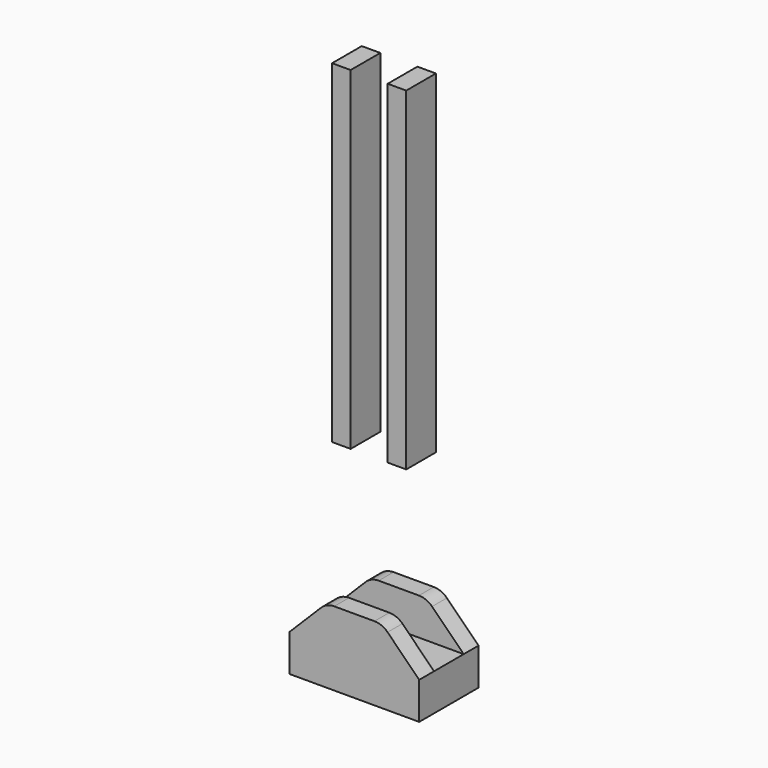
from build123d import *

# Parameters (mm, degrees)
F0_W     = 177.8
F0_H     = 152.4
F1_DEPTH = 50.8
F2_W     = 177.8
F2_H     = 50.8
F3_DEPTH = 50.8
F4_SIZE  = 50.8
F5_R     = 25.4
F6_W     = 25.4
F6_H     = 457.2
F7_DEPTH = 25.4
F9_DEPTH = 50.8


with BuildPart() as f1:
    # F0 (on Front) → F1 (new body, symmetric)
    with BuildSketch(Plane.XZ):
        Rectangle(F0_W, F0_H)
    extrude(amount=F1_DEPTH, both=True)

    # F2 (on face) → F3 (cut)
    with BuildSketch(Plane.XY.offset(76.2)):
        Rectangle(F2_W, F2_H)
    extrude(amount=-F3_DEPTH, mode=Mode.SUBTRACT)

    # F4
    f4_edges = [f1.edges().sort_by_distance(p)[0] for p in [
        (88.9, -38.1, 76.2),
        (88.9, 38.1, 76.2),
        (-88.9, 38.1, 76.2),
        (-88.9, -38.1, 76.2),
    ]]
    chamfer(f4_edges, length=F4_SIZE)

    # F5
    f5_edges = [f1.edges().sort_by_distance(p)[0] for p in [
        (-38.1, -38.1, 76.2),
        (-38.1, 38.1, 76.2),
        (38.1, 38.1, 76.2),
        (38.1, -38.1, 76.2),
    ]]
    fillet(f5_edges, radius=F5_R)

    # F9 (cut): a face of the model
    f9_faces = [f1.faces().sort_by_distance(p)[0] for p in [
        (0, 0, -76.2),
    ]]
    extrude(f9_faces, amount=-F9_DEPTH, mode=Mode.SUBTRACT)


with BuildPart() as f7:
    # F6 (on Front) → F7 (new body, symmetric)
    with BuildSketch(Plane.XZ):
        with Locations((38.1, 266.7)):
            Rectangle(F6_W, F6_H)
    extrude(amount=F7_DEPTH, both=True)


with BuildPart() as f7b:
    # F6 (on Front) → F7, piece 2 (new body, symmetric)
    with BuildSketch(Plane.XZ):
        with Locations((-38.1, 266.7)):
            Rectangle(F6_W, F6_H)
    extrude(amount=F7_DEPTH, both=True)


with BuildPart() as f7b_1:
    # F8: moved
    add(f7b.part.moved(Location((0, 0, 218.44))))


with BuildPart() as f7_1:
    # F8: moved
    add(f7.part.moved(Location((0, 0, 218.44))))


solid = Compound([f1.part, f7b_1.part, f7_1.part])
